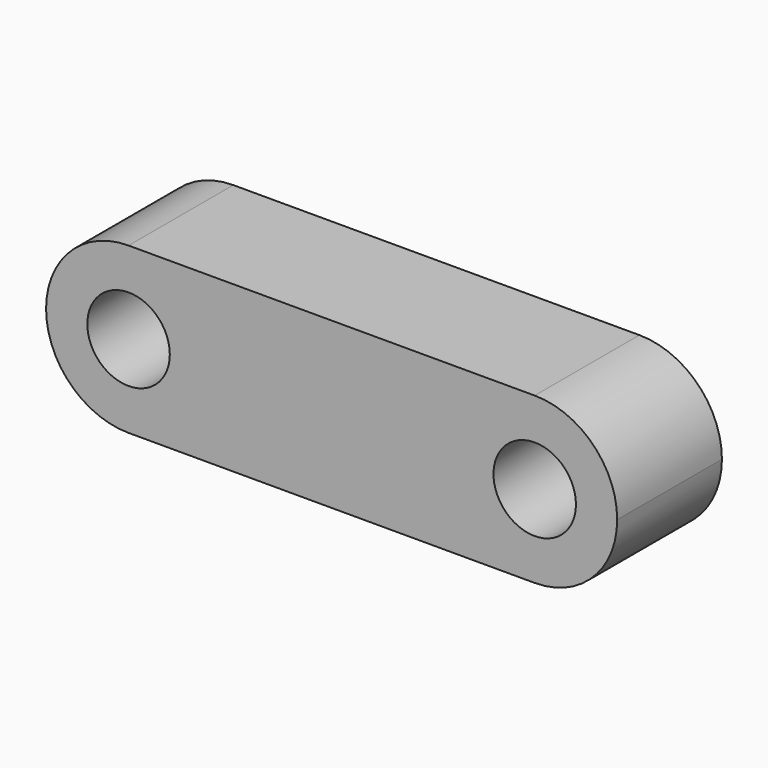
from build123d import *

# Parameters (mm, degrees)
F1_DEPTH = 12.7
F2_R     = 4.0005
F3_DEPTH = 12.7


with BuildPart() as f1:
    # F0 (on Front) → F1 (new body)
    with BuildSketch(Plane.XZ):
        with BuildLine():
            ThreePointArc((-39.4, -8.001), (-33.742439, -5.657561), (-31.399, 0))
            ThreePointArc((-31.399, 0), (-33.742439, 5.657561), (-39.4, 8.001))
            ThreePointArc((-39.4, 8.001), (-47.401, 0), (-39.4, -8.001))
        make_face()
        with BuildLine():
            ThreePointArc((-39.4, 8.001), (-33.742439, 5.657561), (-31.399, 0))
            ThreePointArc((-31.399, 0), (-33.742439, -5.657561), (-39.4, -8.001))
            Line((-39.4, -8.001), (0, -8.001))
            ThreePointArc((0, -8.001), (-8.001, 0), (0, 8.001))
            Line((0, 8.001), (-39.4, 8.001))
        make_face()
        with BuildLine():
            ThreePointArc((8.001, 0), (5.657561, 5.657561), (0, 8.001))
            ThreePointArc((0, 8.001), (-8.001, 0), (0, -8.001))
            ThreePointArc((0, -8.001), (5.657561, -5.657561), (8.001, 0))
        make_face()
    extrude(amount=F1_DEPTH)

    # F2 (on face) → F3 (cut, through all)
    with BuildSketch(Plane.XZ.offset(12.7)):
        with Locations((-39.4, 0)):
            Circle(F2_R)
        Circle(F2_R)
    extrude(amount=-F3_DEPTH, mode=Mode.SUBTRACT)


solid = f1.part
